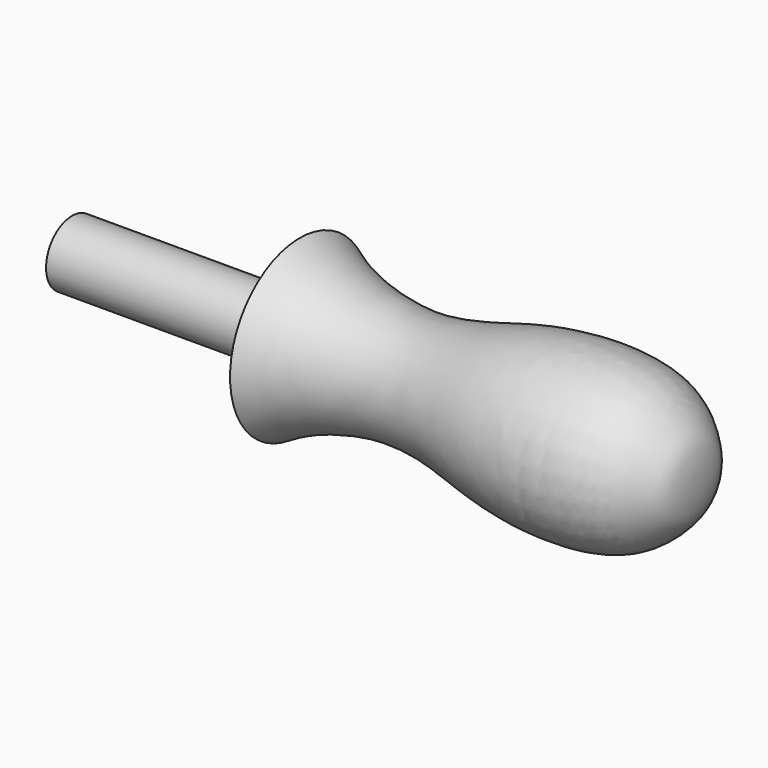
from build123d import *


with BuildPart() as f1:
    # F0 (on Top) → F1 (revolve)
    with BuildSketch(Plane.XY):
        with BuildLine():
            Line((-22.225, 0), (38.9760546386, 0))
            add(Edge.make_bspline(
                [(0, 8.5), (3.6315367607, 6.2218770619), (12.4041890919, 4.287511498), (21.3935250569, 8.0593065976), (33.3995135594, 8.43191098), (37.9070411056, 4.385779418), (38.9760546386, 2.7822553284), (38.9760546386, 0)],
                knots=[0, 0, 0, 0, 0.243562613, 0.4618916033, 0.694623978, 0.8499808418, 1, 1, 1, 1], degree=3))
            Line((0, 8.5), (0, 3.175))
            Line((0, 3.175), (-22.225, 3.175))
            Line((-22.225, 3.175), (-22.225, 0))
        make_face()
    revolve(axis=Axis((8.3755273193, 0, 0), (-1, 0, 0)))


solid = f1.part
